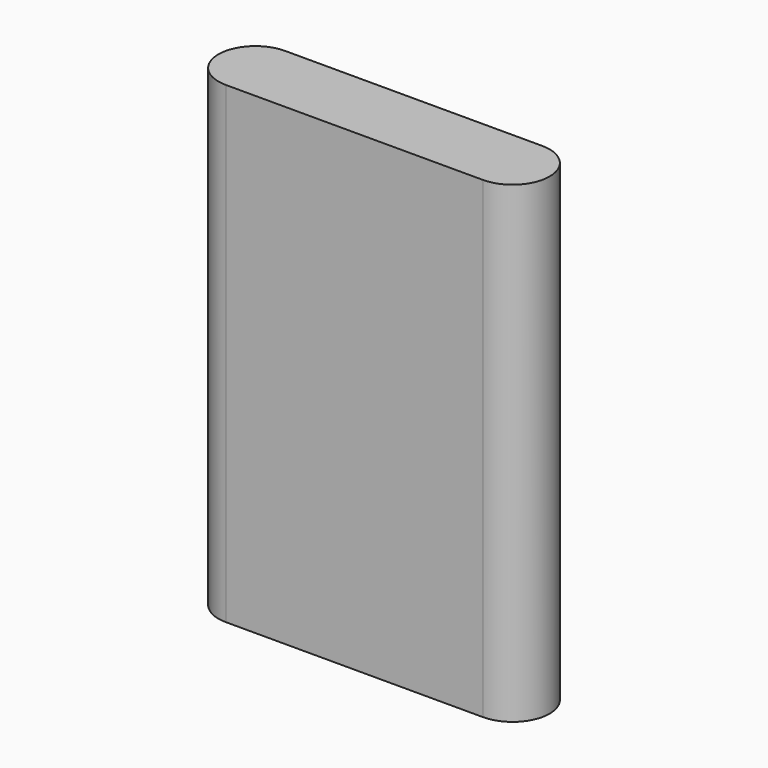
from build123d import *

# Parameters (mm, degrees)
PAD_DEPTH = 20


with BuildPart() as part:
    # Sketch → Pad (new body)
    with BuildSketch(Plane.XY):
        with BuildLine():
            Line((1.5625, 0), (12.4375, 0))
            ThreePointArc((12.4375, 0), (14, 1.5625), (12.4375, 3.125))
            Line((12.4375, 3.125), (1.5625, 3.125))
            ThreePointArc((1.5625, 3.125), (0, 1.5625), (1.5625, 0))
        make_face()
    extrude(amount=PAD_DEPTH)


solid = part.part
